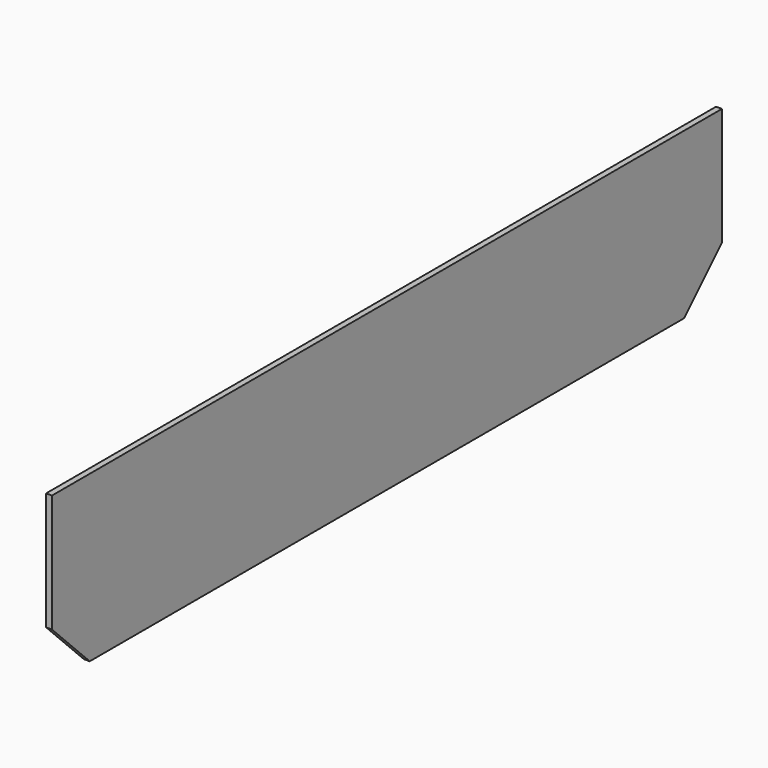
from build123d import *

# Parameters (mm, degrees)
F2_DEPTH = 3.175


with BuildPart() as f2:
    # F1 (on offset) → F2 (new body)
    with BuildSketch(Plane.YZ.offset(142.875)):
        Polygon((225.425, -19.05), (225.425, 44.45), (-225.425, 44.45), (-225.425, -19.05), (-200.025, -44.45), (200.025, -44.45), align=None)
    extrude(amount=F2_DEPTH)


solid = f2.part
